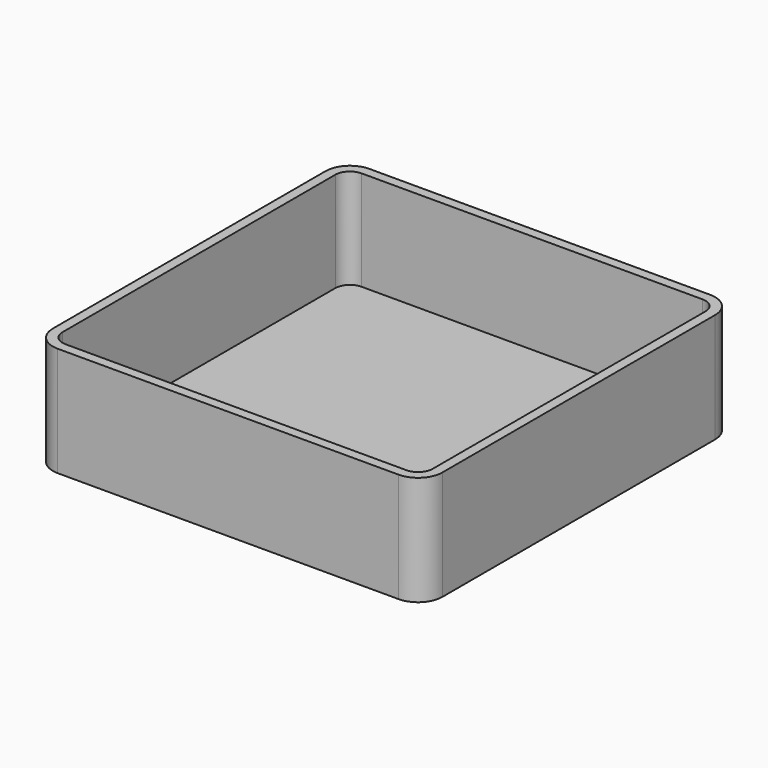
from build123d import *

# Parameters (mm, degrees)
F0_W     = 80
F0_H     = 80
F1_DEPTH = 22.5
F2_R     = 5
F3_T     = -2


with BuildPart() as f1:
    # F0 (on Top) → F1 (new body)
    with BuildSketch(Plane.XY):
        with Locations((40, 40)):
            Rectangle(F0_W, F0_H)
    extrude(amount=F1_DEPTH)

    # F2
    f2_edges = [f1.edges().sort_by_distance(p)[0] for p in [
        (80, 0, 11.25),
        (80, 80, 11.25),
        (0, 80, 11.25),
        (0, 0, 11.25),
    ]]
    fillet(f2_edges, radius=F2_R)

    # F3
    f3_openings = [f1.faces().sort_by_distance(p)[0] for p in [
        (40, 40, 22.5),
    ]]
    offset(amount=F3_T, openings=f3_openings)


solid = f1.part
